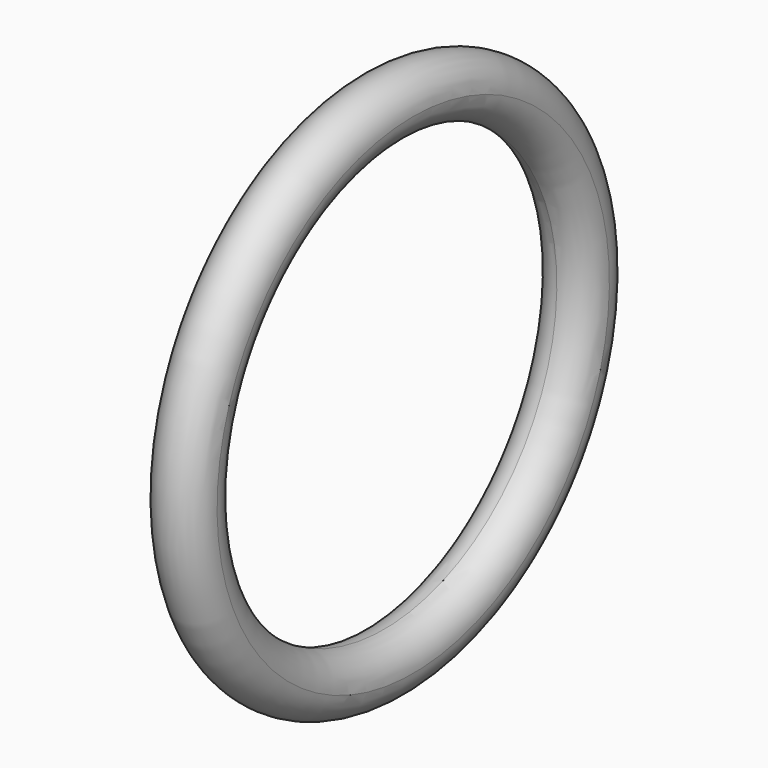
from build123d import *

# Parameters (mm, degrees)
F0_R = 0.127


with BuildPart() as f1:
    # F0 (on Front) → F1 (revolve)
    with BuildSketch(Plane.XZ):
        with BuildLine():
            ThreePointArc((0, 9.398), (0.898026, 9.769974), (1.27, 10.668))
            ThreePointArc((1.27, 10.668), (-0.898026, 11.566026), (0, 9.398))
        make_face()
        with Locations((0, 10.668)):
            Circle(F0_R, mode=Mode.SUBTRACT)
    revolve(axis=Axis((1.713439, 0, 0), (1, 0, 0)))


solid = f1.part
